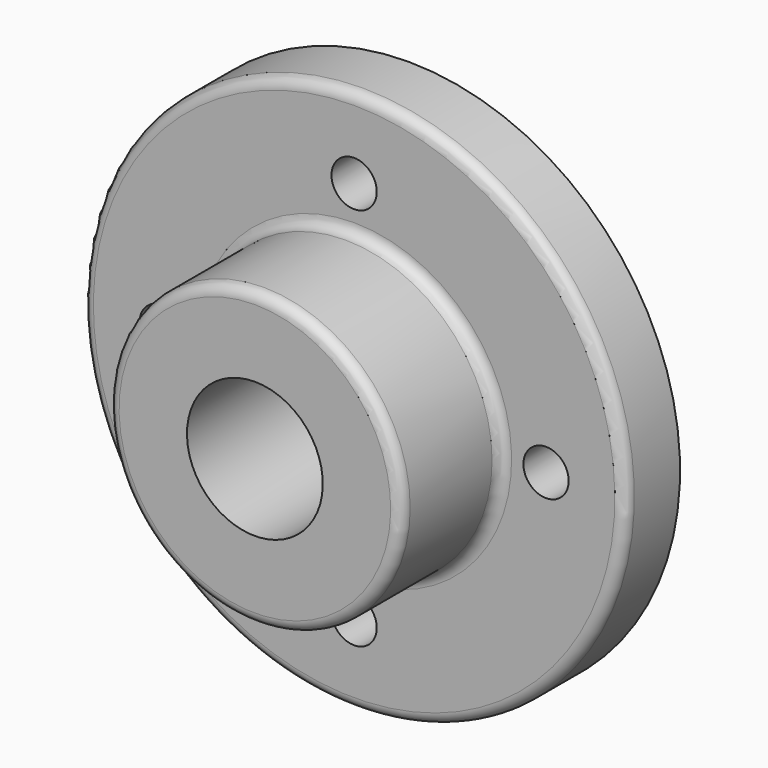
from build123d import *

# Parameters (mm, degrees)
F2_R     = 6.35
F3_DEPTH = 19.051


with BuildPart() as f1:
    # F0 (on Right) → F1 (revolve)
    with BuildSketch(Plane.YZ):
        with BuildLine():
            Line((0, 19.05), (53.848, 19.05))
            Line((53.848, 19.05), (53.848, 76.2))
            Line((53.848, 76.2), (37.846, 76.2))
            ThreePointArc((37.846, 76.2), (35.690739, 75.307261), (34.798, 73.152))
            Line((34.798, 73.152), (34.798, 44.196))
            ThreePointArc((34.798, 44.196), (33.905261, 42.040739), (31.75, 41.148))
            Line((31.75, 41.148), (3.048, 41.148))
            ThreePointArc((3.048, 41.148), (0.892739, 40.255261), (0, 38.1))
            Line((0, 38.1), (0, 19.05))
        make_face()
    revolve(axis=Axis((0, 35.464443, 0), (0, 1, 0)))

    # F2 (on face) → F3 (cut, through all)
    with BuildSketch(Plane.XZ.offset(-34.798)):
        with Locations((0, 53.848)):
            Circle(F2_R)
        with Locations((53.848, 0)):
            Circle(F2_R)
        with Locations((0, -53.848)):
            Circle(F2_R)
        with Locations((-53.848, 0)):
            Circle(F2_R)
    extrude(amount=-F3_DEPTH, mode=Mode.SUBTRACT)


solid = f1.part
